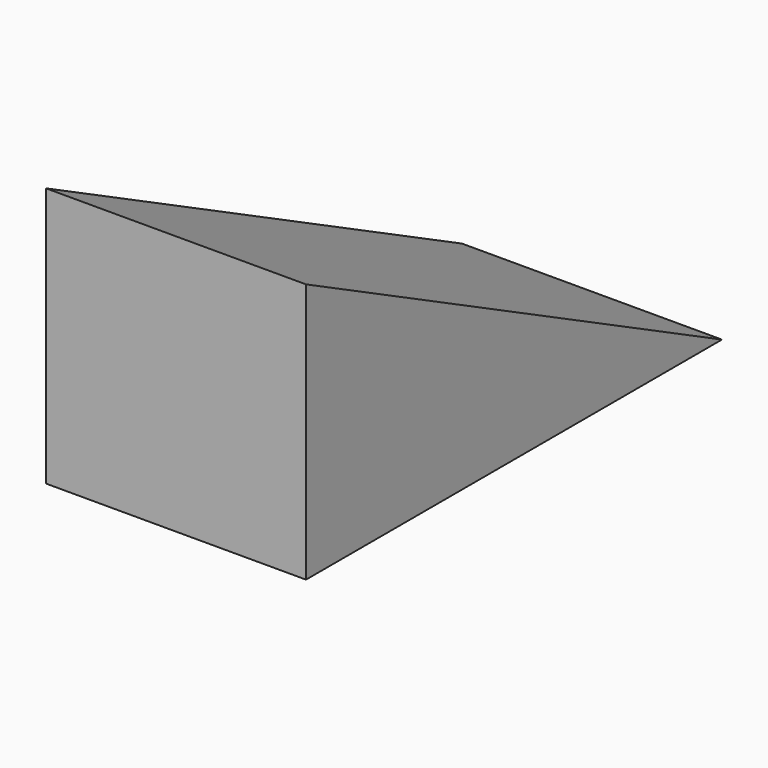
from build123d import *

# Parameters (mm, degrees)
F1_DEPTH = 3.175


with BuildPart() as f1:
    # F0 (on Right) → F1 (new body, symmetric)
    with BuildSketch(Plane.YZ):
        Polygon((-6.35, 3.175), (-6.35, -3.175), (6.35, -3.175), align=None)
    extrude(amount=F1_DEPTH, both=True)


solid = f1.part
